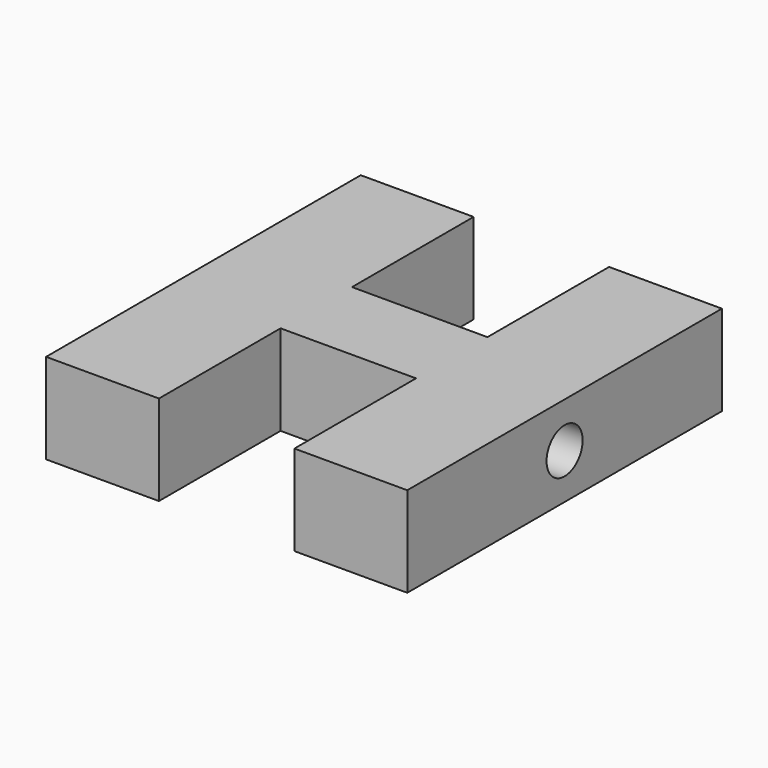
from build123d import *

# Parameters (mm, degrees)
F1_DEPTH       = 12.7
F3_D           = 6.35
F3_CSINK_D     = 12.7
F3_CSINK_ANGLE = 90


with BuildPart() as f1:
    # F0 (on Top) → F1 (new body)
    with BuildSketch(Plane.XY):
        Polygon((-9.525, 27.659873), (-25.4, 27.659873), (-25.4, -27.659873), (-9.525, -27.659873), (-9.525, -6.278621), (0, -6.278621), (0, 6.278621), (-9.525, 6.278621), align=None)
        Polygon((25.4, 27.659873), (9.525, 27.659873), (9.525, 6.278621), (0, 6.278621), (0, -6.278621), (9.525, -6.278621), (9.525, -27.659873), (25.4, -27.659873), align=None)
    extrude(amount=F1_DEPTH)

    # F3 (through all)
    with Locations(Plane(origin=(-25.4, 0, 0), x_dir=(0, -1, 0), z_dir=(-1, 0, 0))):
        with Locations((0, 6.35)):
            CounterSinkHole(F3_D / 2, F3_CSINK_D / 2, counter_sink_angle=F3_CSINK_ANGLE)


solid = f1.part
